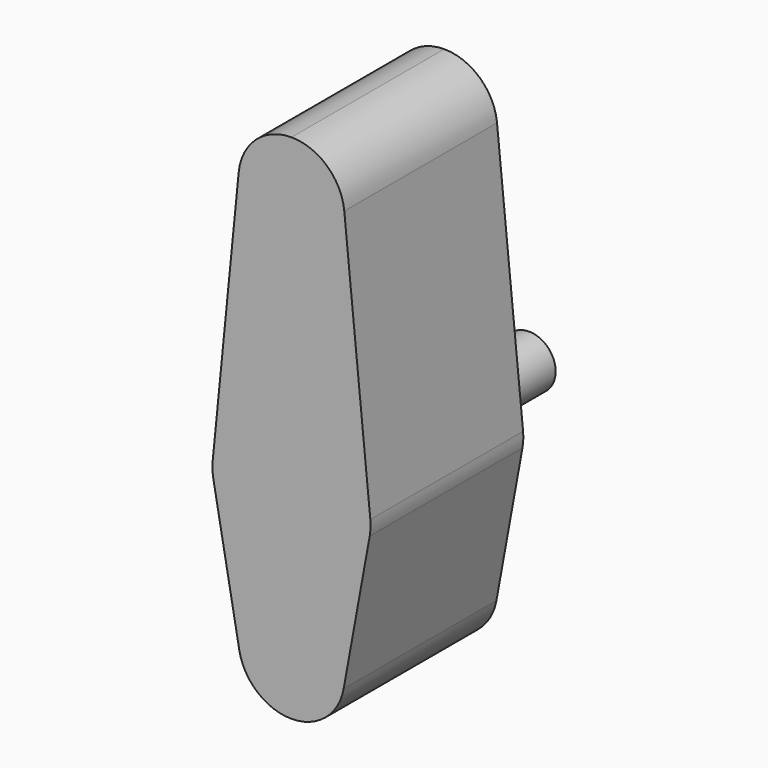
from build123d import *

# Parameters (mm, degrees)
F1_DEPTH = 18
F3_R     = 2.5
F4_DEPTH = 10


with BuildPart() as f1:
    # F0 (on Front) → F1 (new body)
    with BuildSketch(Plane.XZ):
        with BuildLine():
            Line((0, -18.26), (0, 30))
            ThreePointArc((0, 30), (-3.356822, 28.705637), (-4.975665, 25.4927))
            Line((-4.975665, 25.4927), (-7.430809, 0.698745))
            ThreePointArc((-7.430809, 0.698745), (-7.450978, 0.002002), (-7.374057, -0.690776))
            Line((-7.374057, -0.690776), (-4.918914, -14.156821))
            ThreePointArc((-4.918914, -14.156821), (-3.202803, -17.099538), (0, -18.26))
        make_face()
        with BuildLine():
            Line((0, -18.26), (0, 30))
            ThreePointArc((0, 30), (-3.356822, 28.705637), (-4.975665, 25.4927))
            Line((-4.975665, 25.4927), (-7.430809, 0.698745))
            ThreePointArc((-7.430809, 0.698745), (-7.450978, 0.002002), (-7.374057, -0.690776))
            Line((-7.374057, -0.690776), (-4.918914, -14.156821))
            ThreePointArc((-4.918914, -14.156821), (-3.202803, -17.099538), (0, -18.26))
        make_face()
    extrude(amount=F1_DEPTH)

    # F2: F1 across plane


with BuildPart() as f1_1:
    add(f1.part)
    add(f1.part.mirror(Plane.YZ))

    # F3 (on face) → F4 (join)
    with BuildSketch(Plane(origin=(0, 0, 0), x_dir=(-1, 0, 0), z_dir=(0, 1, 0))):
        Circle(F3_R)
    extrude(amount=F4_DEPTH)


solid = f1_1.part
